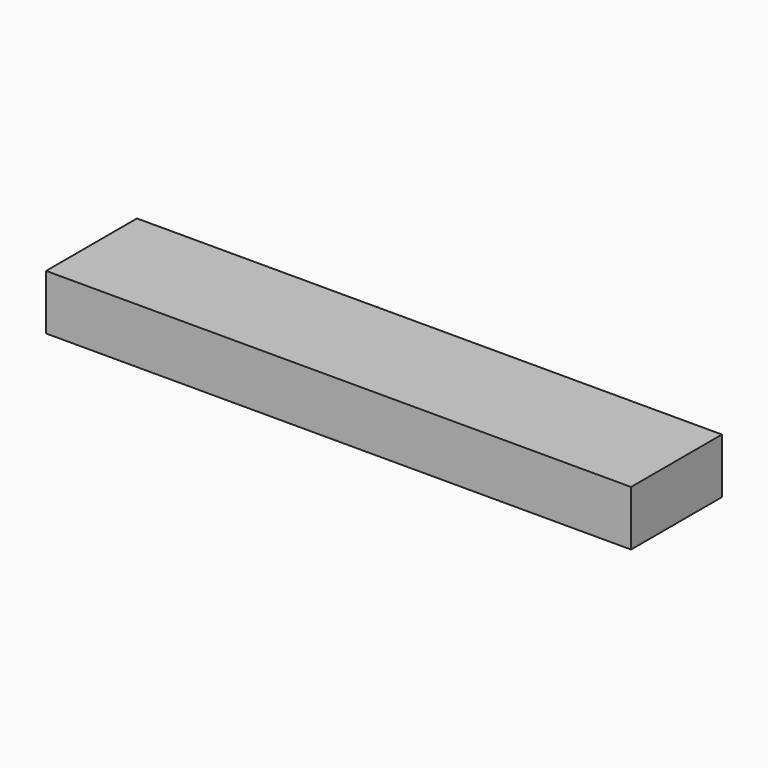
from build123d import *

# Parameters (mm, degrees)
F0_W     = 121
F0_H     = 23.5
F0_R     = 1.65
F1_DEPTH = 1.6
F2_W     = 121
F2_H     = 23.5
F3_DEPTH = 11.4
F4_W     = 12.216829
F4_H     = 6.128608
F4_W_2   = 7.727265
F4_H_2   = 5.254211
F5_DEPTH = 6


with BuildPart() as f1:
    # F0 (on Top) → F1 (new body)
    with BuildSketch(Plane.XY):
        Rectangle(F0_W, F0_H)
        with BuildLine():
            ThreePointArc((-58.5, 8.1), (-58.016726, 9.266726), (-56.85, 9.75))
            Line((-56.85, 9.75), (-52.35, 9.75))
            ThreePointArc((-52.35, 9.75), (-51.183274, 9.266726), (-50.7, 8.1))
            ThreePointArc((-50.7, 8.1), (-51.183274, 6.933274), (-52.35, 6.45))
            Line((-52.35, 6.45), (-56.85, 6.45))
            ThreePointArc((-56.85, 6.45), (-58.016726, 6.933274), (-58.5, 8.1))
        make_face(mode=Mode.SUBTRACT)
        with Locations((55.45, 8.1)):
            Circle(F0_R, mode=Mode.SUBTRACT)
    extrude(amount=F1_DEPTH)

    # F4 (on face) → F5 (join)
    with BuildSketch(Plane.XY.offset(1.6)):
        with Locations((39.874763, 7.674096)):
            Rectangle(F4_W, F4_H)
        with Locations((-55.809871, -6.925545)):
            Rectangle(F4_W_2, F4_H_2)
    extrude(amount=F5_DEPTH)


with BuildPart() as f3:
    # F2 (on face) → F3 (new body)
    with BuildSketch(Plane.XY):
        Rectangle(F2_W, F2_H)
    extrude(amount=F3_DEPTH)


solid = Compound([f1.part, f3.part])
